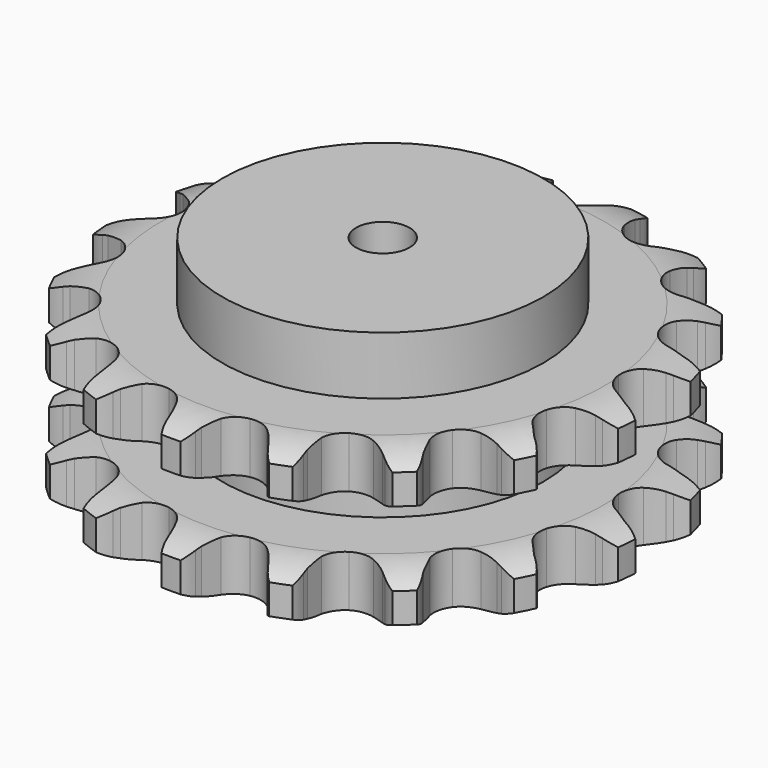
from build123d import *

# Parameters (mm, degrees)
PAD_DEPTH         = 87.4
SKETCH001_R       = 90
PAD001_DEPTH      = 120
SKETCH002_R       = 15
POCKET_DEPTH      = 0.001
POCKET_DEPTH_BACK = 120.001


with BuildPart() as part:
    # Sprocket → Pad (new body)
    with BuildSketch(Plane.XY):
        with BuildLine():
            ThreePointArc((-28.413483, 151.998709), (-22.240891, 147.128214), (-17.944285, 140.543247))
            Line((-17.944285, 140.543247), (-16.558606, 137.404985))
            ThreePointArc((-16.558606, 137.404985), (-14.303381, 133.072737), (-11.512255, 129.064741))
            ThreePointArc((-11.512255, 129.064741), (-6.389948, 124.975227), (0, 123.51553))
            ThreePointArc((0, 123.51553), (6.389948, 124.975227), (11.512255, 129.064741))
            ThreePointArc((11.512255, 129.064741), (14.303381, 133.072737), (16.558606, 137.404985))
            Line((16.558606, 137.404985), (17.944285, 140.543247))
            ThreePointArc((17.944285, 140.543247), (22.240891, 147.128214), (28.413483, 151.998709))
            ThreePointArc((28.413483, 151.998709), (32.409828, 145.22731), (34.03753, 137.534898))
            Line((34.03753, 137.534898), (34.195965, 134.107991))
            ThreePointArc((34.195965, 134.107991), (34.733912, 129.253609), (35.888704, 124.507993))
            ThreePointArc((35.888704, 124.507993), (39.18781, 118.844244), (44.618956, 115.174802))
            ThreePointArc((44.618956, 115.174802), (51.104709, 114.227613), (57.358421, 116.190581))
            Line((57.358421, 116.190581), (65.076846, 122.144674))
            ThreePointArc((65.076846, 122.144674), (66.262408, 123.384891), (67.502624, 124.570452))
            ThreePointArc((67.502624, 124.570452), (73.887854, 129.158637), (81.40305, 131.470441))
            ThreePointArc((81.40305, 131.470441), (82.68342, 123.712653), (81.422387, 115.951699))
            Line((81.422387, 115.951699), (80.332182, 112.69897))
            ThreePointArc((80.332182, 112.69897), (79.080197, 107.978065), (78.442695, 103.135751))
            ThreePointArc((78.442695, 103.135751), (79.473037, 96.662688), (83.211875, 91.279078))
            ThreePointArc((83.211875, 91.279078), (88.917495, 88.052927), (95.458013, 87.624238))
            Line((95.458013, 87.624238), (104.806098, 90.388048))
            ThreePointArc((104.806098, 90.388048), (106.359618, 91.116242), (107.94436, 91.773727))
            ThreePointArc((107.94436, 91.773727), (115.555853, 93.745471), (123.398685, 93.186361))
            ThreePointArc((123.398685, 93.186361), (121.790158, 85.489917), (117.8107, 78.708581))
            Line((117.8107, 78.708581), (115.619093, 76.069329))
            ThreePointArc((115.619093, 76.069329), (112.746264, 72.119485), (110.402565, 67.834454))
            ThreePointArc((110.402565, 67.834454), (109.02499, 61.426299), (110.566569, 55.055609))
            ThreePointArc((110.566569, 55.055609), (114.721481, 49.986205), (120.665472, 47.223757))
            Line((120.665472, 47.223757), (130.380705, 46.424016))
            ThreePointArc((130.380705, 46.424016), (132.092373, 46.541839), (133.807612, 46.582451))
            ThreePointArc((133.807612, 46.582451), (141.617394, 45.671459), (148.728643, 42.316948))
            ThreePointArc((148.728643, 42.316948), (144.448461, 35.721294), (138.288025, 30.835432))
            Line((138.288025, 30.835432), (135.291004, 29.166103))
            ThreePointArc((135.291004, 29.166103), (131.185323, 26.520768), (127.451957, 23.371738))
            ThreePointArc((127.451957, 23.371738), (123.852515, 17.893949), (122.988635, 11.396575))
            ThreePointArc((122.988635, 11.396575), (125.031695, 5.168569), (129.576391, 0.445446))
            Line((129.576391, 0.445446), (138.346675, -3.809838))
            ThreePointArc((138.346675, -3.809838), (139.985322, -4.318296), (141.599404, -4.900043))
            ThreePointArc((141.599404, -4.900043), (148.552722, -8.570736), (153.971974, -14.267605))
            ThreePointArc((153.971974, -14.267605), (147.598198, -18.871688), (140.088786, -21.202212))
            Line((140.088786, -21.202212), (136.691116, -21.676167))
            ThreePointArc((136.691116, -21.676167), (131.907077, -22.659725), (127.288256, -24.247461))
            ThreePointArc((127.288256, -24.247461), (121.95307, -28.055078), (118.800404, -33.801629))
            ThreePointArc((118.800404, -33.801629), (118.455686, -40.347111), (120.9873, -46.393025))
            Line((120.9873, -46.393025), (127.62816, -53.529151))
            ThreePointArc((127.62816, -53.529151), (128.972476, -54.595222), (130.267413, -55.720759))
            ThreePointArc((130.267413, -55.720759), (135.42518, -61.655406), (138.420537, -68.925238))
            ThreePointArc((138.420537, -68.925238), (130.813981, -70.915944), (122.96978, -70.37638))
            Line((122.96978, -70.37638), (119.630335, -69.59095))
            ThreePointArc((119.630335, -69.59095), (114.81405, -68.779896), (109.933571, -68.591905))
            ThreePointArc((109.933571, -68.591905), (103.583188, -70.215111), (98.567521, -74.434737))
            ThreePointArc((98.567521, -74.434737), (95.88158, -80.413689), (96.058203, -86.965861))
            Line((96.058203, -86.965861), (99.672755, -96.019056))
            ThreePointArc((99.672755, -96.019056), (100.541183, -97.498761), (101.342085, -99.016077))
            ThreePointArc((101.342085, -99.016077), (104.007718, -106.413172), (104.174639, -114.274135))
            ThreePointArc((104.174639, -114.274135), (96.36261, -113.382609), (89.243024, -110.045829))
            Line((89.243024, -110.045829), (86.412814, -108.10709))
            ThreePointArc((86.412814, -108.10709), (82.214748, -105.610962), (77.731748, -103.672633))
            ThreePointArc((77.731748, -103.672633), (71.223823, -102.892205), (65.022548, -105.01502))
            ThreePointArc((65.022548, -105.01502), (60.358135, -109.619954), (58.155914, -115.793476))
            Line((58.155914, -115.793476), (58.255993, -125.541056))
            ThreePointArc((58.255993, -125.541056), (58.531247, -127.234552), (58.729947, -128.938726))
            ThreePointArc((58.729947, -128.938726), (58.543437, -136.799249), (55.859379, -144.189678))
            ThreePointArc((55.859379, -144.189678), (48.896936, -140.536324), (43.463503, -134.852978))
            Line((43.463503, -134.852978), (41.524764, -132.022768))
            ThreePointArc((41.524764, -132.022768), (38.51189, -128.178682), (35.031821, -124.751797))
            ThreePointArc((35.031821, -124.751797), (29.245285, -121.673136), (22.695919, -121.412444))
            ThreePointArc((22.695919, -121.412444), (16.68299, -124.021436), (12.399347, -128.98254))
            Line((12.399347, -128.98254), (8.971435, -138.10804))
            ThreePointArc((8.971435, -138.10804), (8.616341, -139.786611), (8.186005, -141.447485))
            ThreePointArc((8.186005, -141.447485), (5.172541, -148.70983), (0, -154.631605))
            ThreePointArc((0, -154.631605), (-5.172541, -148.70983), (-8.186005, -141.447485))
            Line((-8.186005, -141.447485), (-8.971435, -138.10804))
            ThreePointArc((-8.971435, -138.10804), (-10.392213, -133.43516), (-12.399347, -128.98254))
            ThreePointArc((-12.399347, -128.98254), (-16.68299, -124.021436), (-22.695919, -121.412444))
            ThreePointArc((-22.695919, -121.412444), (-29.245285, -121.673136), (-35.031821, -124.751797))
            Line((-35.031821, -124.751797), (-41.524764, -132.022768))
            ThreePointArc((-41.524764, -132.022768), (-42.46225, -133.459714), (-43.463503, -134.852978))
            ThreePointArc((-43.463503, -134.852978), (-48.896936, -140.536324), (-55.859379, -144.189678))
            ThreePointArc((-55.859379, -144.189678), (-58.543437, -136.799249), (-58.729947, -128.938726))
            Line((-58.729947, -128.938726), (-58.255993, -125.541056))
            ThreePointArc((-58.255993, -125.541056), (-57.892789, -120.670481), (-58.155914, -115.793476))
            ThreePointArc((-58.155914, -115.793476), (-60.358135, -109.619954), (-65.022548, -105.01502))
            ThreePointArc((-65.022548, -105.01502), (-71.223823, -102.892205), (-77.731748, -103.672633))
            Line((-77.731748, -103.672633), (-86.412814, -108.10709))
            ThreePointArc((-86.412814, -108.10709), (-87.806078, -109.108343), (-89.243024, -110.045829))
            ThreePointArc((-89.243024, -110.045829), (-96.36261, -113.382609), (-104.174639, -114.274135))
            ThreePointArc((-104.174639, -114.274135), (-104.007718, -106.413172), (-101.342085, -99.016077))
            Line((-101.342085, -99.016077), (-99.672755, -96.019056))
            ThreePointArc((-99.672755, -96.019056), (-97.574624, -91.608585), (-96.058203, -86.965861))
            ThreePointArc((-96.058203, -86.965861), (-95.88158, -80.413689), (-98.567521, -74.434737))
            ThreePointArc((-98.567521, -74.434737), (-103.583188, -70.215111), (-109.933571, -68.591905))
            Line((-109.933571, -68.591905), (-119.630335, -69.59095))
            ThreePointArc((-119.630335, -69.59095), (-121.291209, -70.021286), (-122.96978, -70.37638))
            ThreePointArc((-122.96978, -70.37638), (-130.813981, -70.915944), (-138.420537, -68.925238))
            ThreePointArc((-138.420537, -68.925238), (-135.42518, -61.655406), (-130.267413, -55.720759))
            Line((-130.267413, -55.720759), (-127.62816, -53.529151))
            ThreePointArc((-127.62816, -53.529151), (-124.078465, -50.174442), (-120.9873, -46.393025))
            ThreePointArc((-120.9873, -46.393025), (-118.455686, -40.347111), (-118.800404, -33.801629))
            ThreePointArc((-118.800404, -33.801629), (-121.95307, -28.055078), (-127.288256, -24.247461))
            Line((-127.288256, -24.247461), (-136.691116, -21.676167))
            ThreePointArc((-136.691116, -21.676167), (-138.39529, -21.477466), (-140.088786, -21.202212))
            ThreePointArc((-140.088786, -21.202212), (-147.598198, -18.871688), (-153.971974, -14.267605))
            ThreePointArc((-153.971974, -14.267605), (-148.552722, -8.570736), (-141.599404, -4.900043))
            Line((-141.599404, -4.900043), (-138.346675, -3.809838))
            ThreePointArc((-138.346675, -3.809838), (-133.824822, -1.963962), (-129.576391, 0.445446))
            ThreePointArc((-129.576391, 0.445446), (-125.031695, 5.168569), (-122.988635, 11.396575))
            ThreePointArc((-122.988635, 11.396575), (-123.852515, 17.893949), (-127.451957, 23.371738))
            Line((-127.451957, 23.371738), (-135.291004, 29.166103))
            ThreePointArc((-135.291004, 29.166103), (-136.80832, 29.967005), (-138.288025, 30.835432))
            ThreePointArc((-138.288025, 30.835432), (-144.448461, 35.721294), (-148.728643, 42.316948))
            ThreePointArc((-148.728643, 42.316948), (-141.617394, 45.671459), (-133.807612, 46.582451))
            Line((-133.807612, 46.582451), (-130.380705, 46.424016))
            ThreePointArc((-130.380705, 46.424016), (-125.497395, 46.511762), (-120.665472, 47.223757))
            ThreePointArc((-120.665472, 47.223757), (-114.721481, 49.986205), (-110.566569, 55.055609))
            ThreePointArc((-110.566569, 55.055609), (-109.02499, 61.426299), (-110.402565, 67.834454))
            Line((-110.402565, 67.834454), (-115.619093, 76.069329))
            ThreePointArc((-115.619093, 76.069329), (-116.744629, 77.364265), (-117.8107, 78.708581))
            ThreePointArc((-117.8107, 78.708581), (-121.790158, 85.489917), (-123.398685, 93.186361))
            ThreePointArc((-123.398685, 93.186361), (-115.555853, 93.745471), (-107.94436, 91.773727))
            Line((-107.94436, 91.773727), (-104.806098, 90.388048))
            ThreePointArc((-104.806098, 90.388048), (-100.220849, 88.705814), (-95.458013, 87.624238))
            ThreePointArc((-95.458013, 87.624238), (-88.917495, 88.052927), (-83.211875, 91.279078))
            ThreePointArc((-83.211875, 91.279078), (-79.473037, 96.662688), (-78.442695, 103.135751))
            Line((-78.442695, 103.135751), (-80.332182, 112.69897))
            ThreePointArc((-80.332182, 112.69897), (-80.913928, 114.313053), (-81.422387, 115.951699))
            ThreePointArc((-81.422387, 115.951699), (-82.68342, 123.712653), (-81.40305, 131.470441))
            ThreePointArc((-81.40305, 131.470441), (-73.887854, 129.158637), (-67.502624, 124.570452))
            Line((-67.502624, 124.570452), (-65.076846, 122.144674))
            ThreePointArc((-65.076846, 122.144674), (-61.408923, 118.919655), (-57.358421, 116.190581))
            ThreePointArc((-57.358421, 116.190581), (-51.104709, 114.227613), (-44.618956, 115.174802))
            ThreePointArc((-44.618956, 115.174802), (-39.18781, 118.844244), (-35.888704, 124.507993))
            Line((-35.888704, 124.507993), (-34.195965, 134.107991))
            ThreePointArc((-34.195965, 134.107991), (-34.155353, 135.82323), (-34.03753, 137.534898))
            ThreePointArc((-34.03753, 137.534898), (-32.409828, 145.22731), (-28.413483, 151.998709))
        make_face()
    extrude(amount=PAD_DEPTH)

    # Sketch → Groove (revolve, cut)
    with BuildSketch(Plane.XZ):
        with BuildLine():
            ThreePointArc((124.45, 0), (136.819317, 1.522732), (148.45, 6))
            Line((148.45, 6), (148.45, 22.8))
            ThreePointArc((148.45, 22.8), (136.819317, 27.277268), (124.45, 28.8))
            Line((90, 28.8), (124.45, 28.8))
            Line((90, 58.6), (90, 28.8))
            Line((124.45, 58.6), (90, 58.6))
            ThreePointArc((124.45, 58.6), (136.819317, 60.122732), (148.45, 64.6))
            Line((148.45, 64.6), (148.45, 81.4))
            ThreePointArc((148.45, 81.4), (136.819317, 85.877268), (124.45, 87.4))
            Line((124.45, 87.4), (158.45, 87.4))
            Line((158.45, 87.4), (158.45, 0))
            Line((124.45, 0), (158.45, 0))
        make_face()
    revolve(axis=Axis((0, 0, 0), (0, 0, 1)), mode=Mode.SUBTRACT)

    # Sketch001 → Pad001 (join)
    with BuildSketch(Plane.XY):
        Circle(SKETCH001_R)
    extrude(amount=PAD001_DEPTH)

    # Sketch002 → Pocket (cut, two sides)
    with BuildSketch(Plane.XY) as pocket_sk:
        Circle(SKETCH002_R)
    extrude(amount=-POCKET_DEPTH, mode=Mode.SUBTRACT)
    extrude(pocket_sk.sketch, amount=POCKET_DEPTH_BACK, mode=Mode.SUBTRACT)


solid = part.part
